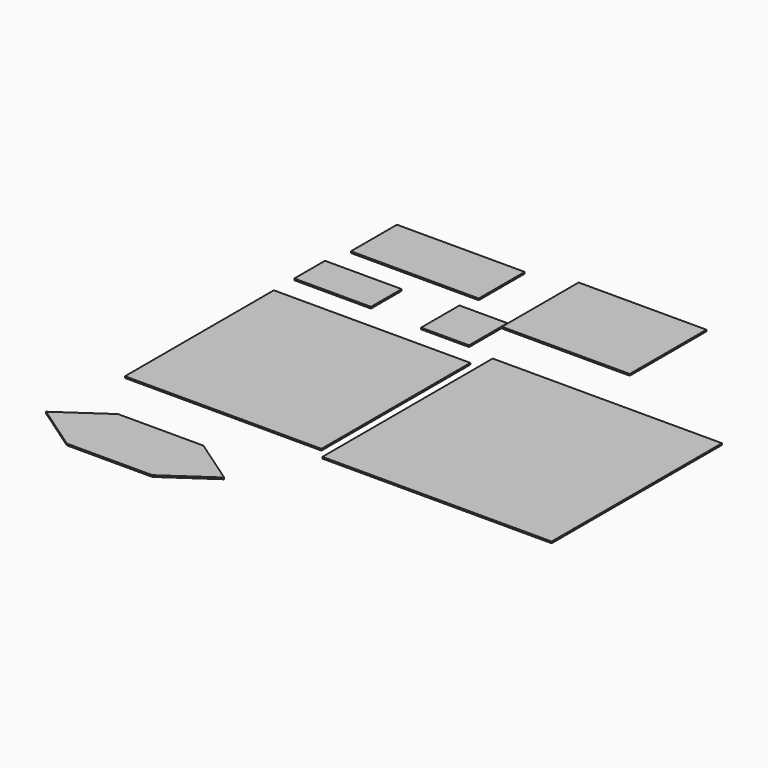
from build123d import *

# Parameters (mm, degrees)
F0_W      = 3124.2
F0_H      = 2959.1
F1_DEPTH  = 25.4
F2_W      = 3644.9
F2_H      = 3384.55
F3_DEPTH  = 25.4
F4_W      = 1358.9
F4_H      = 1016
F5_DEPTH  = 25.4
F6_W      = 1219.2
F6_H      = 609.6
F7_DEPTH  = 25.4
F8_W      = 2032
F8_H      = 914.4
F9_DEPTH  = 25.4
F10_W     = 762
F10_H     = 762
F11_DEPTH = 25.4
F12_W     = 2032
F12_H     = 1524
F13_DEPTH = 25.4


with BuildPart() as f1:
    # F0 (on Top) → F1 (new body)
    with BuildSketch(Plane.XY):
        with Locations((1562.1, 1479.55)):
            Rectangle(F0_W, F0_H)
    extrude(amount=F1_DEPTH)


with BuildPart() as f3:
    # F2 (on Top) → F3 (new body)
    with BuildSketch(Plane.XY):
        with Locations((5090.62584, 1531.457749)):
            Rectangle(F2_W, F2_H)
    extrude(amount=F3_DEPTH)


with BuildPart() as f5:
    # F4 (on Top) → F5 (new body)
    with BuildSketch(Plane.XY):
        with Locations((1247.202193, -1356.852071)):
            Rectangle(F4_W, F4_H)
        Polygon((567.752193, -1864.852071), (567.752193, -848.852071), (-168.847807, -1356.852071), align=None)
        Polygon((2663.252193, -1356.852071), (1926.652193, -848.852071), (1926.652193, -1864.852071), align=None)
    extrude(amount=F5_DEPTH)


with BuildPart() as f7:
    # F6 (on Top) → F7 (new body)
    with BuildSketch(Plane.XY):
        with Locations((609.6, 3670.783486)):
            Rectangle(F6_W, F6_H)
    extrude(amount=F7_DEPTH)


with BuildPart() as f9:
    # F8 (on Top) → F9 (new body)
    with BuildSketch(Plane.XY):
        with Locations((1107.516957, 4833.961913)):
            Rectangle(F8_W, F8_H)
    extrude(amount=F9_DEPTH)


with BuildPart() as f11:
    # F10 (on Top) → F11 (new body)
    with BuildSketch(Plane.XY):
        with Locations((2435.481352, 3699.695545)):
            Rectangle(F10_W, F10_H)
    extrude(amount=F11_DEPTH)


with BuildPart() as f13:
    # F12 (on Top) → F13 (new body)
    with BuildSketch(Plane.XY):
        with Locations((3839.771542, 4724.992907)):
            Rectangle(F12_W, F12_H)
    extrude(amount=F13_DEPTH)


solid = Compound([f1.part, f3.part, f5.part, f7.part, f9.part, f11.part, f13.part])
